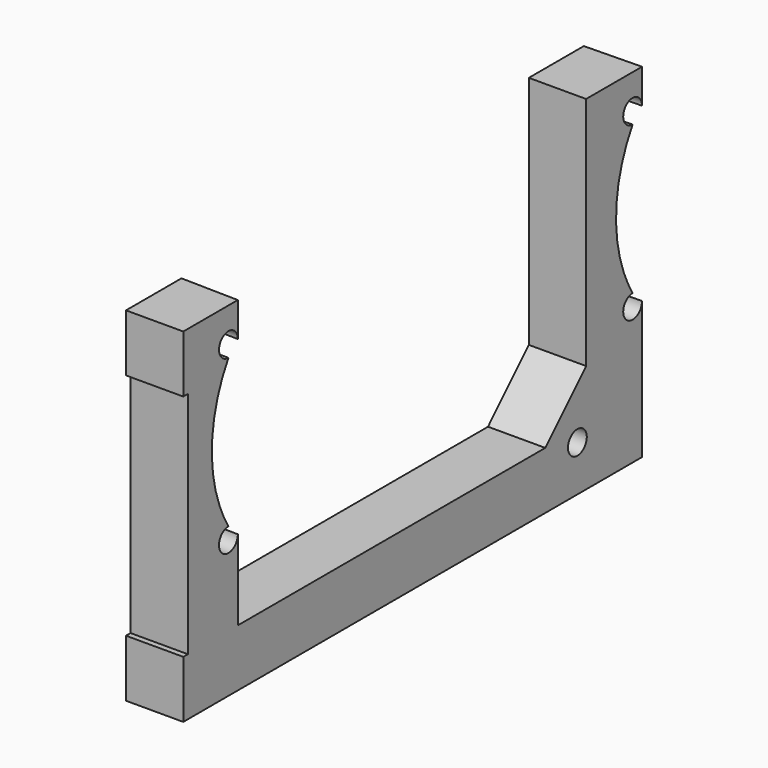
from build123d import *

# Parameters (mm, degrees)
PAD_DEPTH       = 60
POCKET_DEPTH    = 50
POCKET001_DEPTH = 407.8842315097
POCKET002_DEPTH = 407.6818719776
SKETCH004_W     = 462.917107
SKETCH004_H     = 152.532247
SKETCH004_W_2   = 206.430237
SKETCH004_H_2   = 142.147327
POCKET003_DEPTH = 60.001
SKETCH005_R     = 2.05
SKETCH005_W     = 1
SKETCH005_H     = 40
POCKET004_DEPTH = 10.001


with BuildPart() as part:
    # Sketch → Pad (new body)
    with BuildSketch(Plane.XY):
        Polygon((450, 0), (450, 90), (356, 88.12), (355.76, 100.12), (343.76, 99.88), (344, 87.88), (6, 81.12), (5.76, 93.12), (-6.24, 92.88), (-6, 80.88), (-50, 80), (-50, 0), align=None)
    extrude(amount=PAD_DEPTH)

    # Sketch001 (on Face14 of Pad) → Pocket (cut)
    with BuildSketch(Plane.XY.offset(60)):
        Polygon((-50, 10), (-50, 79), (450, 79), (450, 0), (356, 1.88), (356.2, 11.88), (344.2, 12.12), (344, 2.12), (6, 8.88), (6.2, 18.88), (-5.8, 19.12), (-6, 9.12), align=None)
    extrude(amount=-POCKET_DEPTH, mode=Mode.SUBTRACT)

    # Sketch002 (on Face26 of Pocket) → Pocket001 (cut, through all)
    with BuildSketch(Plane(origin=(355.8200719712, -7.1164014394, 0), x_dir=(0.0199960012, 0.99980006, 0), z_dir=(0.99980006, -0.0199960012, 0))):
        with BuildLine():
            ThreePointArc((19.0002003399, 54), (15.5006314384, 55.4495689014), (16.9502003399, 51.95))
            ThreePointArc((16.9502003399, 51.95), (13.3347157657, 39), (16.9502003399, 26.05))
            ThreePointArc((16.9502003399, 26.05), (15.5006314384, 22.5504310986), (19.0002003399, 24))
            Line((19.0002003399, 24), (19.0002003399, 54))
        make_face()
    extrude(amount=-POCKET001_DEPTH, mode=Mode.SUBTRACT)

    # Sketch003 (on Face14 of Pocket001) → Pocket002 (cut, through all)
    with BuildSketch(Plane(origin=(357.6193522591, 7.1523870452, 0), x_dir=(-0.0199960012, 0.99980006, 0), z_dir=(0.99980006, 0.0199960012, 0))):
        with BuildLine():
            ThreePointArc((92.9862046184, 54), (89.486635717, 55.4495689014), (90.9362046184, 51.95))
            ThreePointArc((90.9362046184, 51.95), (87.3207200443, 39), (90.9362046184, 26.05))
            ThreePointArc((90.9362046184, 26.05), (89.486635717, 22.5504310986), (92.9862046184, 24))
            Line((92.9862046184, 24), (92.9862046184, 54))
        make_face()
    extrude(amount=-POCKET002_DEPTH, mode=Mode.SUBTRACT)

    # Sketch004 (on Face7 of Pocket002) → Pocket003 (cut, through all)
    with BuildSketch(Plane.XY.offset(60)):
        with Locations((113.5414465, 49.6986895)):
            Rectangle(SKETCH004_W, SKETCH004_H)
        with Locations((458.2151185, 57.1989195)):
            Rectangle(SKETCH004_W_2, SKETCH004_H_2)
    extrude(amount=-POCKET003_DEPTH, mode=Mode.SUBTRACT)

    # Sketch005 (on Face2 of Pocket003) → Pocket004 (cut, through all)
    with BuildSketch(Plane(origin=(345, 0, 0), x_dir=(0, -1, 0), z_dir=(-1, 0, 0))):
        with Locations((-86, 8)):
            Circle(SKETCH005_R)
        with Locations((-0.5, 30)):
            Rectangle(SKETCH005_W, SKETCH005_H)
        Polygon((-87.9048, 60), (-79, 60), (-79, 10), (-87.9048, 18.95854), align=None)
    extrude(amount=-POCKET004_DEPTH, mode=Mode.SUBTRACT)


solid = part.part
